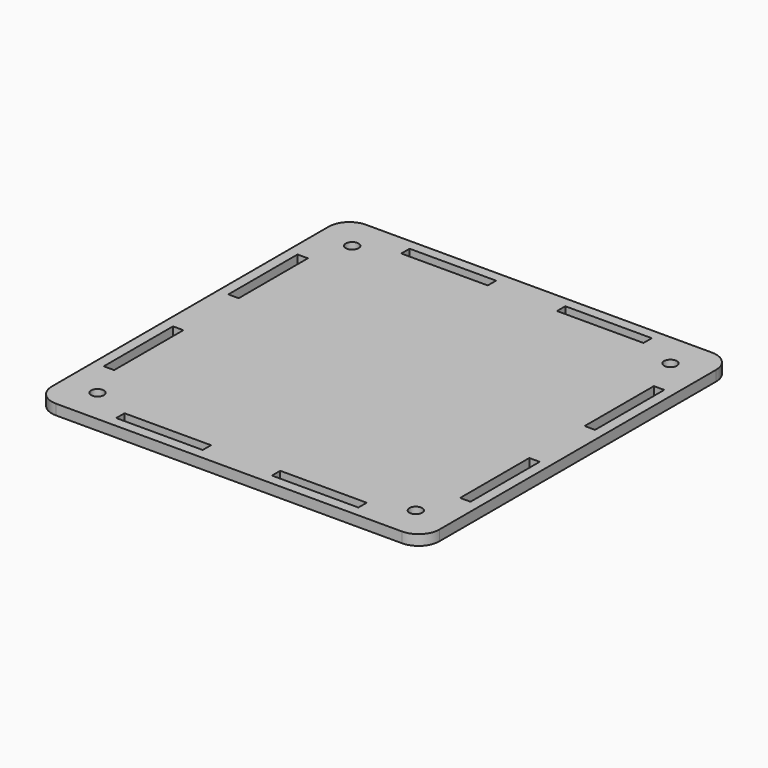
from build123d import *

# Parameters (mm, degrees)
SKETCH_R      = 1.85
SKETCH_W      = 25
SKETCH_H      = 3
SKETCH_W_2    = 3
SKETCH_H_2    = 25
EXTRUDE_DEPTH = 3


with BuildPart() as part:
    # Sketch → Extrude (new body)
    with BuildSketch(Plane.XY):
        with BuildLine():
            ThreePointArc((0, 106), (-4.242641, 104.242641), (-6, 100))
            Line((-6, 100), (-6, 0))
            ThreePointArc((-6, 0), (-4.242641, -4.242641), (0, -6))
            Line((0, -6), (100, -6))
            ThreePointArc((100, -6), (104.242641, -4.242641), (106, 0))
            Line((106, 0), (106, 100))
            ThreePointArc((106, 100), (104.242641, 104.242641), (100, 106))
            Line((0, 106), (100, 106))
        make_face()
        with Locations((4, 96)):
            Circle(SKETCH_R, mode=Mode.SUBTRACT)
        with Locations((96, 96)):
            Circle(SKETCH_R, mode=Mode.SUBTRACT)
        with Locations((96, 4)):
            Circle(SKETCH_R, mode=Mode.SUBTRACT)
        with Locations((4, 4)):
            Circle(SKETCH_R, mode=Mode.SUBTRACT)
        with Locations((27.5, 101.5)):
            Rectangle(SKETCH_W, SKETCH_H, mode=Mode.SUBTRACT)
        with Locations((72.5, 101.5)):
            Rectangle(SKETCH_W, SKETCH_H, mode=Mode.SUBTRACT)
        with Locations((101.5, 72.5)):
            Rectangle(SKETCH_W_2, SKETCH_H_2, mode=Mode.SUBTRACT)
        with Locations((101.5, 27.5)):
            Rectangle(SKETCH_W_2, SKETCH_H_2, mode=Mode.SUBTRACT)
        with Locations((72.5, -1.5)):
            Rectangle(SKETCH_W, SKETCH_H, mode=Mode.SUBTRACT)
        with Locations((27.5, -1.5)):
            Rectangle(SKETCH_W, SKETCH_H, mode=Mode.SUBTRACT)
        with Locations((-1.5, 27.5)):
            Rectangle(SKETCH_W_2, SKETCH_H_2, mode=Mode.SUBTRACT)
        with Locations((-1.5, 72.5)):
            Rectangle(SKETCH_W_2, SKETCH_H_2, mode=Mode.SUBTRACT)
    extrude(amount=EXTRUDE_DEPTH)


solid = part.part
